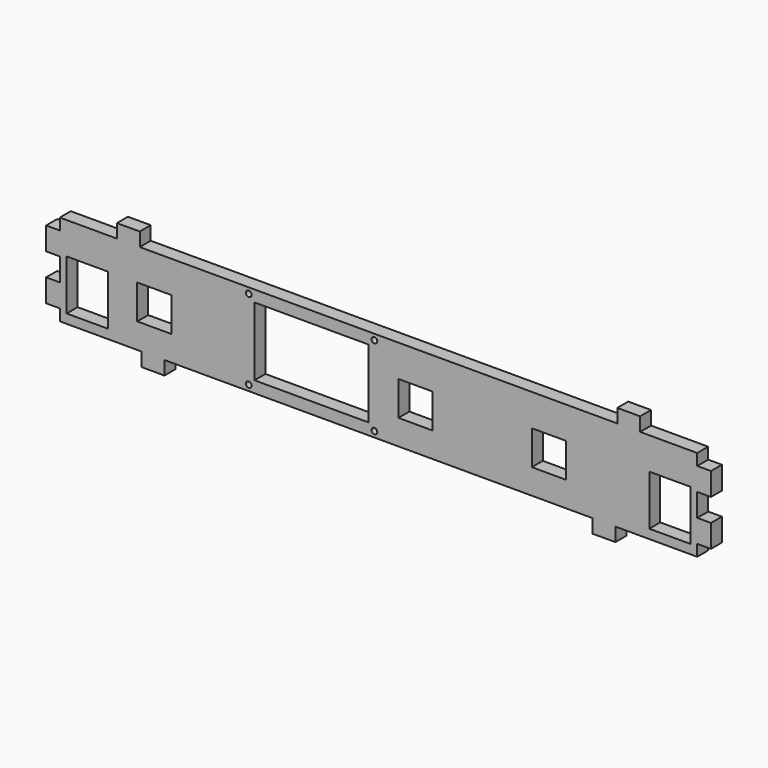
from build123d import *

# Parameters (mm, degrees)
F0_R     = 1.25
F0_W     = 18
F0_H     = 22
F0_W_2   = 15
F0_H_2   = 15
F0_W_3   = 50
F0_H_3   = 30
F1_DEPTH = 6


with BuildPart() as f1:
    # F0 (on Front) → F1 (new body)
    with BuildSketch(Plane.XZ):
        Polygon((-139.5, -13.727578), (-139.5, -18.727578), (-103.67224, -18.727578), (-103.67224, -24.727578), (-93.67224, -24.727578), (-93.67224, -18.727578), (0, -18.727578), (93.67224, -18.727578), (93.67224, -24.727578), (103.67224, -24.727578), (103.67224, -18.727578), (139.5, -18.727578), (139.5, -13.727578), (145.5, -13.727578), (145.5, -3.727578), (139.5, -3.727578), (139.5, 6.272422), (145.5, 6.272422), (145.5, 16.272422), (139.499999, 16.272422), (139.49919, 21.272422), (114.49919, 21.272422), (114.49919, 27.272422), (104.49919, 27.272422), (104.49919, 21.272422), (0, 21.272422), (-104.49919, 21.272422), (-104.49919, 27.272422), (-114.49919, 27.272422), (-114.49919, 21.272422), (-139.49919, 21.272422), (-139.499999, 16.272422), (-145.5, 16.272422), (-145.5, 6.272422), (-139.5, 6.272422), (-139.5, -3.727578), (-145.5, -3.727578), (-145.5, -13.727578), align=None)
        with Locations((-56.8, -16.227578)):
            Circle(F0_R, mode=Mode.SUBTRACT)
        with Locations((-1.8, -16.227578)):
            Circle(F0_R, mode=Mode.SUBTRACT)
        with Locations((-127.5, -3.727578)):
            Rectangle(F0_W, F0_H, mode=Mode.SUBTRACT)
        with Locations((-98.1, -0.227578)):
            Rectangle(F0_W_2, F0_H_2, mode=Mode.SUBTRACT)
        with Locations((16.2, -0.227578)):
            Rectangle(F0_W_2, F0_H_2, mode=Mode.SUBTRACT)
        with Locations((74.6, -0.227578)):
            Rectangle(F0_W_2, F0_H_2, mode=Mode.SUBTRACT)
        with Locations((127.5, -3.727578)):
            Rectangle(F0_W, F0_H, mode=Mode.SUBTRACT)
        with Locations((-29.3, 1.272422)):
            Rectangle(F0_W_3, F0_H_3, mode=Mode.SUBTRACT)
        with Locations((-56.8, 18.772422)):
            Circle(F0_R, mode=Mode.SUBTRACT)
        with Locations((-1.8, 18.772422)):
            Circle(F0_R, mode=Mode.SUBTRACT)
    extrude(amount=F1_DEPTH)


solid = f1.part
